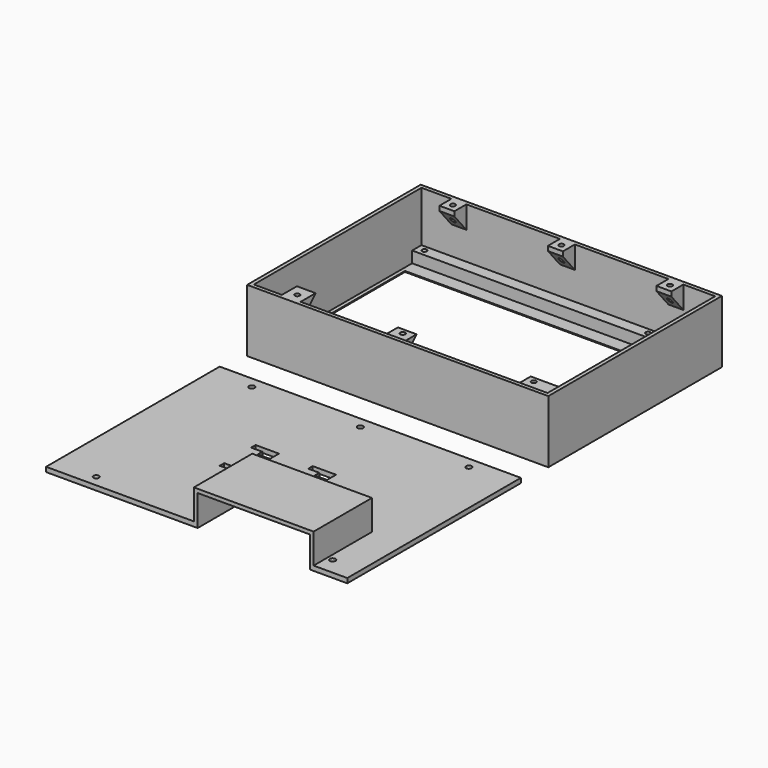
from build123d import *

# Parameters (mm, degrees)
F0_W      = 161
F0_H      = 116
F0_W_2    = 127.5
F0_H_2    = 99.5
F2_DEPTH  = 6.5
F0_W_3    = 118
F0_H_3    = 89
F3_DEPTH  = 0.5
F1_R      = 5.25
F4_DEPTH  = 6.5
F5_W      = 6
F5_H      = 19
F5_W_2    = 17
F5_R      = 5.25
F6_DEPTH  = 5.5
F7_W      = 161
F7_H      = 116
F8_DEPTH  = 27
F9_R      = 1.25
F10_DEPTH = 4
F11_W     = 8
F11_H     = 12
F12_DEPTH = 8
F14_DEPTH = 124
F15_W     = 10
F15_H     = 10.2
F15_W_2   = 17
F16_DEPTH = 10
F18_DEPTH = 88
F19_R     = 1.3
F20_DEPTH = 27
F21_DEPTH = 3
F22_R     = 1.5
F23_DEPTH = 2.5
F24_W     = 6
F24_H     = 3
F25_DEPTH = 2.501
F26_DEPTH = 27
F28_DEPTH = 25
F30_DEPTH = 14
F31_W     = 60
F31_H     = 37
F32_DEPTH = 2


with BuildPart() as f2:
    # F0 (on Top) → F2 (new body)
    with BuildSketch(Plane.XY):
        with Locations((16.5, 2)):
            Rectangle(F0_W, F0_H)
        with Locations((1.75, 2)):
            Rectangle(F0_W_2, F0_H_2, mode=Mode.SUBTRACT)
    extrude(amount=F2_DEPTH)

    # F0 (on Top) → F3 (join)
    with BuildSketch(Plane.XY):
        with Locations((1.75, 2)):
            Rectangle(F0_W_2, F0_H_2)
        with Locations((-1, 0)):
            Rectangle(F0_W_3, F0_H_3, mode=Mode.SUBTRACT)
    extrude(amount=F3_DEPTH)

    # F1 (on face) → F4 (cut, through all)
    with BuildSketch(Plane.XY):
        with Locations((83.5, -40.25)):
            Circle(F1_R)
        with Locations((83.5, 44.25)):
            Circle(F1_R)
        with Locations((85, -24)):
            Circle(F1_R)
        with Locations((85, -11)):
            Circle(F1_R)
        with Locations((85, 2)):
            Circle(F1_R)
        with Locations((85, 15)):
            Circle(F1_R)
        with Locations((85, 28)):
            Circle(F1_R)
    extrude(amount=F4_DEPTH, mode=Mode.SUBTRACT)

    # F5 (on face) → F6 (cut)
    with BuildSketch(Plane.XY.offset(6.5)):
        with Locations((72, 44.25)):
            Rectangle(F5_W, F5_H)
        with Locations((83.5, 44.25)):
            Rectangle(F5_W_2, F5_H)
        with Locations((83.5, 44.25)):
            Circle(F5_R, mode=Mode.SUBTRACT)
        with Locations((72, -40.25)):
            Rectangle(F5_W, F5_H)
        with Locations((83.5, -40.25)):
            Rectangle(F5_W_2, F5_H)
        with Locations((83.5, -40.25)):
            Circle(F5_R, mode=Mode.SUBTRACT)
    extrude(amount=-F6_DEPTH, mode=Mode.SUBTRACT)

    # F7 (on face) → F8 (join)
    with BuildSketch(Plane.XY.offset(6.5)):
        with Locations((16.5, 2)):
            Rectangle(F7_W, F7_H)
        Polygon((-62, 51.75), (-62, 58), (95, 58), (95, -54), (-62, -54), (-62, -47.75), align=None, mode=Mode.SUBTRACT)
    extrude(amount=F8_DEPTH)

    # F9 (on face) → F10 (cut)
    with BuildSketch(Plane.XY.offset(6.5)):
        with Locations((-58, 55)):
            Circle(F9_R)
        with Locations((61.5, 55)):
            Circle(F9_R)
        with Locations((61.5, -51)):
            Circle(F9_R)
        with Locations((-58, -51)):
            Circle(F9_R)
    extrude(amount=-F10_DEPTH, mode=Mode.SUBTRACT)

    # F11 (on face) → F12 (join)
    with BuildSketch(Plane.XZ.offset(-58)):
        with Locations((-42, 27.5)):
            Rectangle(F11_W, F11_H)
        with Locations((16, 27.5)):
            Rectangle(F11_W, F11_H)
        with Locations((74, 27.5)):
            Rectangle(F11_W, F11_H)
    extrude(amount=F12_DEPTH)

    # F13 (on face) → F14 (cut, through all)
    with BuildSketch(Plane(origin=(-46, 0, 0), x_dir=(0, -1, 0), z_dir=(-1, 0, 0))):
        Polygon((-50, 31.0340287408), (-58, 21.5), (-50, 21.5), align=None)
    extrude(amount=-F14_DEPTH, mode=Mode.SUBTRACT)

    # F15 (on face) → F16 (join)
    with BuildSketch(Plane(origin=(0, -54, 0), x_dir=(-1, 0, 0), z_dir=(0, 1, 0))):
        with Locations((42, 28.4)):
            Rectangle(F15_W, F15_H)
        with Locations((-12, 26.6)):
            Rectangle(F15_W, F15_H)
        with Locations((-86.5, 26.6)):
            Rectangle(F15_W_2, F15_H)
    extrude(amount=F16_DEPTH)

    # F17 (on face) → F18 (cut, through all)
    with BuildSketch(Plane(origin=(7, 0, 0), x_dir=(0, -1, 0), z_dir=(-1, 0, 0))):
        Polygon((44, 21.5), (54, 21.5), (44, 31.7), align=None)
    extrude(amount=-F18_DEPTH, mode=Mode.SUBTRACT)

    # F19 (on face) → F20 (cut, through all)
    with BuildSketch(Plane.XY.offset(33.5)):
        with Locations((74, 54)):
            Circle(F19_R)
        with Locations((-42, -50)):
            Circle(F19_R)
        with Locations((12, -47)):
            Circle(F19_R)
        with Locations((82, -47)):
            Circle(F19_R)
        with Locations((-42, 54)):
            Circle(F19_R)
        with Locations((16, 54)):
            Circle(F19_R)
    extrude(amount=-F20_DEPTH, mode=Mode.SUBTRACT)

    # F5 (on face) → F21 (cut)
    with BuildSketch(Plane.XY.offset(6.5)):
        Polygon((95, 34.75), (92, 34.75), (75, 34.75), (75, -30.75), (92, -30.75), (95, -30.75), align=None)
        with Locations((85, -24)):
            Circle(F5_R, mode=Mode.SUBTRACT)
        with Locations((85, -11)):
            Circle(F5_R, mode=Mode.SUBTRACT)
        with Locations((85, 2)):
            Circle(F5_R, mode=Mode.SUBTRACT)
        with Locations((85, 15)):
            Circle(F5_R, mode=Mode.SUBTRACT)
        with Locations((85, 28)):
            Circle(F5_R, mode=Mode.SUBTRACT)
    extrude(amount=-F21_DEPTH, mode=Mode.SUBTRACT)

    # F19 (on face) → F26 (cut, through all)
    with BuildSketch(Plane.XY.offset(33.5)):
        with Locations((82, -47)):
            Circle(F19_R)
    extrude(amount=-F26_DEPTH, mode=Mode.SUBTRACT)

    # F27 (on face) → F28 (cut, through all)
    with BuildSketch(Plane.YZ.offset(-37)):
        Polygon((-44, 33.5), (-54, 23.3), (-44, 23.3), align=None)
    extrude(amount=-F28_DEPTH, mode=Mode.SUBTRACT)


with BuildPart() as f23:
    # F22 (on Top) → F23 (new body)
    with BuildSketch(Plane.XY):
        Polygon((97, -74.3341559172), (-64, -74.3341559172), (-64, -190.3341559172), (17, -190.3341559172), (17, -153.3341559172), (77, -153.3341559172), (77, -190.3341559172), (97, -190.3341559172), align=None)
        with Locations((-42, -184.3341559172)):
            Circle(F22_R, mode=Mode.SUBTRACT)
        with Locations((12, -181.3341559172)):
            Circle(F22_R, mode=Mode.SUBTRACT)
        with Locations((82, -181.3341559172)):
            Circle(F22_R, mode=Mode.SUBTRACT)
        with Locations((-42, -80.3341559172)):
            Circle(F22_R, mode=Mode.SUBTRACT)
        with Locations((16, -80.3341559172)):
            Circle(F22_R, mode=Mode.SUBTRACT)
        with Locations((74, -80.3341559172)):
            Circle(F22_R, mode=Mode.SUBTRACT)
    extrude(amount=F23_DEPTH)

    # F24 (on face) → F25 (cut, through all)
    with BuildSketch(Plane.XY.offset(2.5)):
        with Locations((-5, -121.8341559172)):
            Rectangle(F24_W, F24_H)
        Polygon((-2, -126.3341559172), (4.5, -126.3341559172), (4.5, -120.3341559172), (-2, -120.3341559172), (-2, -123.3341559172), align=None)
        with Locations((25.5, -121.8341559172)):
            Rectangle(F24_W, F24_H)
        Polygon((28.5, -126.3341559172), (35, -126.3341559172), (35, -120.3341559172), (28.5, -120.3341559172), (28.5, -123.3341559172), align=None)
        Polygon((28.5, -144.3341559172), (35, -144.3341559172), (35, -138.3341559172), (28.5, -138.3341559172), (28.5, -141.3341559172), align=None)
        with Locations((25.5, -142.8341559172)):
            Rectangle(F24_W, F24_H)
        Polygon((-2, -144.3341559172), (4.5, -144.3341559172), (4.5, -138.3341559172), (-2, -138.3341559172), (-2, -141.3341559172), align=None)
        with Locations((-5, -142.8341559172)):
            Rectangle(F24_W, F24_H)
    extrude(amount=-F25_DEPTH, mode=Mode.SUBTRACT)

    # F29 (on face) → F30 (join)
    with BuildSketch(Plane.XY.offset(2.5)):
        Polygon((15, -151.3341559172), (15, -190.3341559172), (17, -190.3341559172), (17, -153.3341559172), (77, -153.3341559172), (77, -190.3341559172), (79, -190.3341559172), (79, -151.3341559172), align=None)
    extrude(amount=F30_DEPTH)

    # F31 (on face) → F32 (join)
    with BuildSketch(Plane.XY.offset(16.5)):
        with Locations((47, -171.8341559172)):
            Rectangle(F31_W, F31_H)
        Polygon((77, -190.3341559172), (79, -190.3341559172), (79, -151.3341559172), (15, -151.3341559172), (15, -190.3341559172), (17, -190.3341559172), (17, -153.3341559172), (77, -153.3341559172), align=None)
    extrude(amount=F32_DEPTH)


solid = Compound([f2.part, f23.part])
